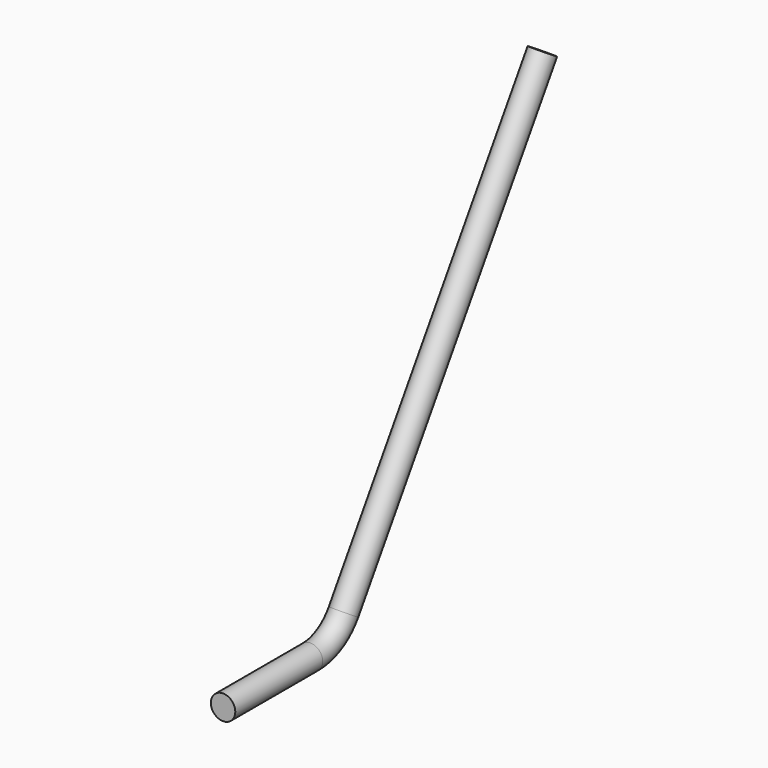
from build123d import *

# Parameters (mm, degrees)
F0_R     = 1.5
F3_DEPTH = 12.7
F4_DEPTH = 50.8


with BuildPart() as f2:
    # F2: sweep along a path in F1
    with BuildLine(Plane.YZ) as f2_path:
        Line((0, 0), (0.6976816626, 0))
        ThreePointArc((0.6976816626, 0), (3.5907533681, 0.7435624129), (5.7667652809, 2.7899546311))
        Line((5.7667652809, 2.7899546311), (9.0660760179, 8))
    # F0 (on Front) → F2 (sweep)
    with BuildSketch(Plane.XZ):
        Circle(F0_R)
    sweep(path=f2_path.line)

    # F0 (on Front) → F3 (join)
    with BuildSketch(Plane.XZ):
        Circle(F0_R)
    extrude(amount=F3_DEPTH)

    # F4 (add): a face of the model
    f4_faces = [f2.faces().sort_by_distance(p)[0] for p in [
        (0, 9.0660760179, 8),
    ]]
    extrude(f4_faces, amount=F4_DEPTH)


solid = f2.part
